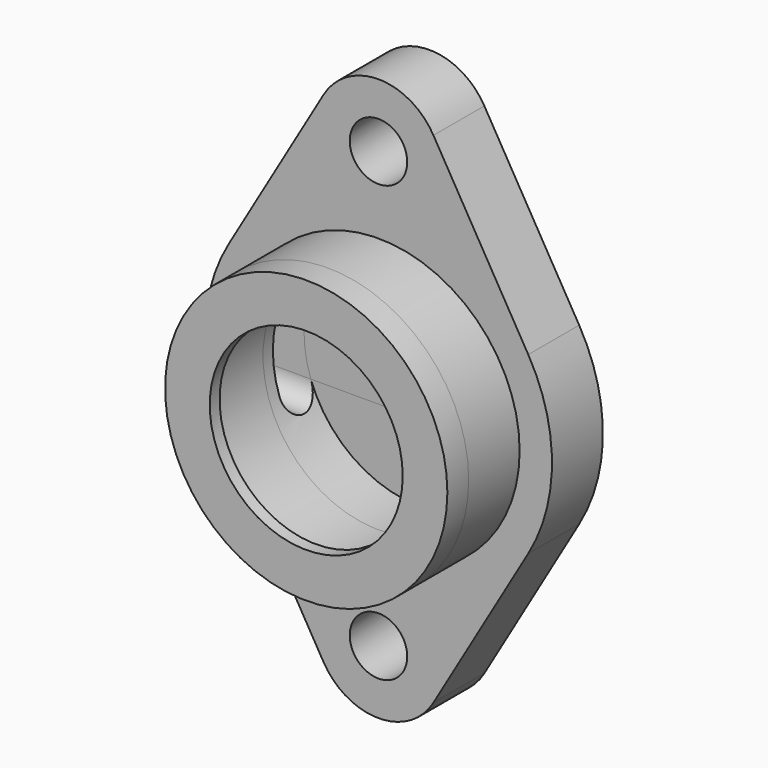
from build123d import *

# Parameters (mm, degrees)
F0_R      = 34.925
F1_DEPTH  = 15.748
F0_R_2    = 7.112
F2_DEPTH  = 15.748
F3_DEPTH  = 22.352
F4_R      = 28.575
F5_DEPTH  = 19.304
F7_R      = 23.876
F8_DEPTH  = 3.048
F10_DEPTH = 42.926
F11_DEPTH = 12.7


with BuildPart() as f1:
    # F0 (on Front) → F1 (new body, symmetric)
    with BuildSketch(Plane.XZ):
        Circle(F0_R)
    extrude(amount=F1_DEPTH, both=True)

    # F0 (on Front) → F2 (join)
    with BuildSketch(Plane.XZ):
        with BuildLine():
            Line((-13.59501, 61.796283), (-37.057366, 21.665481))
            ThreePointArc((-37.057366, 21.665481), (-42.926, 0), (-37.057366, -21.665481))
            Line((-37.057366, -21.665481), (-13.59501, -61.796283))
            ThreePointArc((-13.59501, -61.796283), (0, -69.596), (13.59501, -61.796283))
            Line((13.59501, -61.796283), (37.057366, -21.665481))
            ThreePointArc((37.057366, -21.665481), (42.926, 0), (37.057366, 21.665481))
            Line((37.057366, 21.665481), (13.59501, 61.796283))
            ThreePointArc((13.59501, 61.796283), (0, 69.596), (-13.59501, 61.796283))
        make_face()
        with Locations((0, -53.848)):
            Circle(F0_R_2, mode=Mode.SUBTRACT)
        Circle(F0_R, mode=Mode.SUBTRACT)
        with Locations((0, 53.848)):
            Circle(F0_R_2, mode=Mode.SUBTRACT)
    extrude(amount=-F2_DEPTH)

    # F0 (on Front) → F3 (join)
    with BuildSketch(Plane.XZ):
        Circle(F0_R)
    extrude(amount=F3_DEPTH)

    # F4 (on Front) → F5 (cut)
    with BuildSketch(Plane.XZ):
        Circle(F4_R)
    extrude(amount=F5_DEPTH, mode=Mode.SUBTRACT)

    # F7 (on offset) → F8 (cut)
    with BuildSketch(Plane.XZ.offset(22.352)):
        Circle(F7_R)
    extrude(amount=-F8_DEPTH, mode=Mode.SUBTRACT)

    # F9 (on Right) → F10 (cut, through all)
    with BuildSketch(Plane.YZ):
        with BuildLine():
            ThreePointArc((3.048, -9.652), (7.874, -14.478), (12.7, -9.652))
            Line((12.7, -9.652), (12.7, 9.652))
            ThreePointArc((12.7, 9.652), (7.874, 14.478), (3.048, 9.652))
            Line((3.048, 9.652), (3.048, -9.652))
        make_face()
    extrude(amount=-F10_DEPTH, mode=Mode.SUBTRACT)

    # F4 (on Front) → F11 (cut)
    with BuildSketch(Plane.XZ):
        Circle(F4_R)
    extrude(amount=-F11_DEPTH, mode=Mode.SUBTRACT)


solid = f1.part
